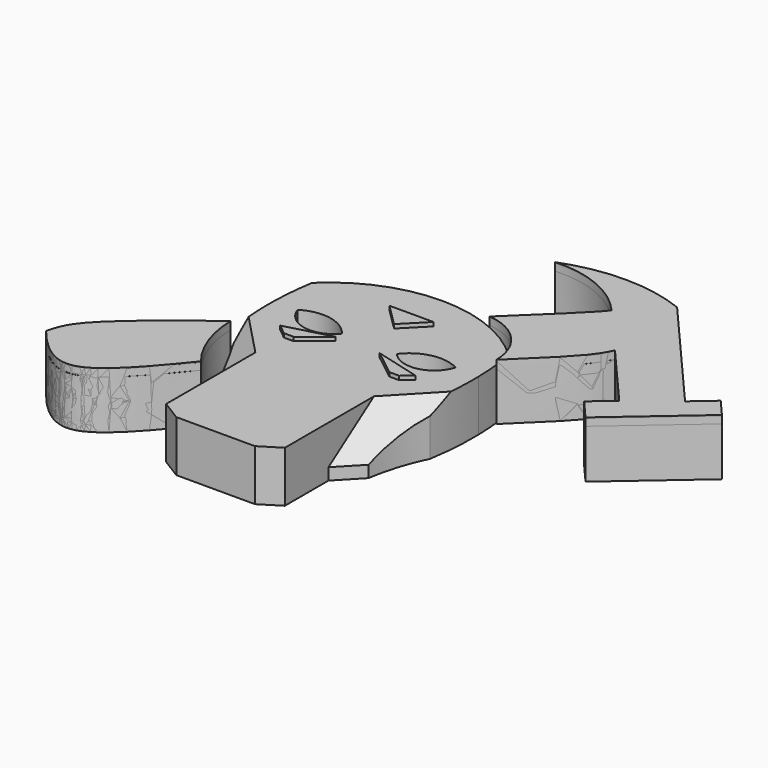
from build123d import *

# Parameters (mm, degrees)
F1_DEPTH = 6.5
F3_SIZE  = 5
F4_DEPTH = 7
F6_DEPTH = 7.2
F7_DEPTH = 7.1
F8_DEPTH = 6.2


with BuildPart() as f1:
    # F0 (on Top) → F1 (new body)
    with BuildSketch(Plane.XY):
        with BuildLine():
            Line((-5, -18.4848460191), (0, -18.4848460191))
            Line((0, -18.4848460191), (5, -18.4848460191))
            Line((5, -18.4848460191), (7.546688482, -16.8991670555))
            Line((7.546688482, -16.8991670555), (7.546688482, -9.9648127406))
            Line((7.546688482, -9.9648127406), (10.307957616, -7.0707856555))
            ThreePointArc((10.307957616, -7.0707856555), (11.1408114989, -3.4538072836), (12.5, 0))
            ThreePointArc((12.5, 0), (12.9195363206, 3.5231057176), (13.0086560419, 7.0699835415))
            Line((13.0086560419, 7.0699835415), (10.0107151117, 7.1811149009))
            ThreePointArc((10.0107151117, 7.1811149009), (7.2198051274, 4.6037186851), (3.6151232198, 5.803059395))
            Line((3.6151232198, 5.803059395), (-3.3572988263, 5.803059395))
            ThreePointArc((-3.3572988263, 5.803059395), (-7.0569417695, 4.4732070993), (-10.0086560419, 7.0699835415))
            Line((-10.0086560419, 7.0699835415), (-13.0086560419, 7.0699835415))
            ThreePointArc((-13.0086560419, 7.0699835415), (-12.9195363206, 3.5231057176), (-12.5, 0))
            ThreePointArc((-12.5, 0), (-11.1408114989, -3.4538072836), (-10.307957616, -7.0707856555))
            Line((-10.307957616, -7.0707856555), (-7.546688482, -9.9648127406))
            Line((-7.546688482, -9.9648127406), (-7.546688482, -16.8991670555))
            Line((-7.546688482, -16.8991670555), (-5, -18.4848460191))
        make_face()
        with BuildLine():
            ThreePointArc((-12.5, 12.5), (-12.8518687613, 9.7941288861), (-13.0086560419, 7.0699835415))
            Line((-13.0086560419, 7.0699835415), (-10.0086560419, 7.0699835415))
            ThreePointArc((-10.0086560419, 7.0699835415), (-6.435892718, 7.7337172897), (-3.3572988263, 5.803059395))
            Line((-3.3572988263, 5.803059395), (3.6151232198, 5.803059395))
            ThreePointArc((3.6151232198, 5.803059395), (6.5562487153, 7.6833014675), (10.0107151117, 7.1811149009))
            Line((10.0107151117, 7.1811149009), (13.0086560419, 7.0699835415))
            ThreePointArc((13.0086560419, 7.0699835415), (12.8518687613, 9.7941288861), (12.5, 12.5))
            ThreePointArc((12.5, 12.5), (0, 17.5620218672), (-12.5, 12.5))
        make_face()
    extrude(amount=F1_DEPTH)

    # F3
    f3_edges = [f1.edges().sort_by_distance(p)[0] for p in [
        (-8.927323, -8.517799, 6.5),
        (8.927323, -8.517799, 6.5),
    ]]
    chamfer(f3_edges, length=F3_SIZE)

    # F2 (on Top) → F4 (join)
    with BuildSketch(Plane.XY):
        Polygon((2.7648685425, 12.7032707048), (0, 12.7032707048), (-2.8330716532, 12.7032707048), (0, 9.9045083547), align=None)
        Polygon((-7.3284250684, 1.5438316623), (-2.8330716532, 4.1420751754), (-8.6280779543, 2.5871147354), align=None)
        Polygon((-6.0784250684, 1.5438316623), (-2.8330716532, 4.1420751754), (-7.3284250684, 1.5438316623), align=None)
        Polygon((8.5598748436, 2.5871147354), (2.7648685425, 4.1420751754), (7.3452845961, 1.5438316623), align=None)
        Polygon((7.3452845961, 1.5438316623), (2.7648685425, 4.1420751754), (6.0952845961, 1.5438316623), align=None)
    extrude(amount=F4_DEPTH)


with BuildPart() as f6:
    # F5 (on Top) → F6 (new body)
    with BuildSketch(Plane.XY):
        with BuildLine():
            add(Edge.make_bspline(
                [(-25.8379075676, -13.1371738389), (-25.5945488681, -12.1848880245), (-24.8351838835, -9.213420376), (-17.7041135385, -3.727685368), (-12.8583842888, 0)],
                knots=[0, 0, 0, 0, 0.3204765883, 1, 1, 1, 1], degree=3))
            add(Edge.make_bspline(
                [(-25.8379075676, -13.1371738389), (-25.1821435427, -13.9341154603), (-23.7478790856, -15.6771586869), (-18.4500778378, -19.2834477125), (-13.0896551761, -12.7292205484), (-9.7432984039, -8.6376061663)],
                knots=[0, 0, 0, 0, 0.2404058287, 0.5258073365, 1, 1, 1, 1], degree=3))
            ThreePointArc((-9.7432984039, -8.6376061663), (-12.0142304981, -4.5760813654), (-12.8583842888, 0))
        make_face()
    extrude(amount=F6_DEPTH)


with BuildPart() as f6b:
    # F5 (on Top) → F6, piece 2 (new body)
    with BuildSketch(Plane.XY):
        with BuildLine():
            add(Edge.make_bspline(
                [(6.6346595995, 16.8111696839), (9.9933228586, 20.0193486711), (14.4232862269, 24.2508283688), (15.0893225263, 25.1978767297), (15.2503903955, 25.4269018769)],
                knots=[0, 0, 0, 0, 0.7581695332, 1, 1, 1, 1], degree=3))
            ThreePointArc((6.6346595995, 16.8111696839), (11.1249930464, 14.6058795236), (12.964585796, 9.9537512287))
            add(Edge.make_bspline(
                [(12.964585796, 9.9537512287), (15.655198787, 12.5387803888), (19.6988329208, 16.4237360414), (20.6024271345, 18.2812074964), (20.9025796213, 18.9013099688)],
                knots=[0, 0, 0, 0, 0.6639989533, 0.9979022778, 0.9979022778, 0.9979022778, 0.9979022778], degree=3))
            Line((20.9025796213, 18.9013099688), (15.2503903955, 25.4269018769))
        make_face()
        with BuildLine():
            Line((20.9082365036, 18.9129970968), (15.2503903955, 25.4269018769))
            Line((15.2503903955, 25.4269018769), (20.9025796213, 18.9013099688))
            add(Edge.make_bspline(
                [(20.9025796213, 18.9013099688), (20.9044653065, 18.9052057154), (20.9063509051, 18.9091014061), (20.9082365036, 18.9129970968)],
                knots=[0.9979022778, 0.9979022778, 0.9979022778, 0.9979022778, 1, 1, 1, 1], degree=3))
        make_face()
        with BuildLine():
            ThreePointArc((4.4197016396, 29.9974143004), (10.3673193121, 28.9734797637), (15.2503903955, 25.4269018769))
            Line((15.2503903955, 25.4269018769), (20.9082365036, 18.9129970968))
            add(Edge.make_bspline(
                [(20.9025796213, 18.9013099688), (20.9044653065, 18.9052057154), (20.9063509051, 18.9091014061), (20.9082365036, 18.9129970968)],
                knots=[0.9979022778, 0.9979022778, 0.9979022778, 0.9979022778, 1, 1, 1, 1], degree=3))
            Line((20.9025796213, 18.9013099688), (28.008563444, 10.6972763315))
            Line((28.008563444, 10.6972763315), (25.3717325873, 8.4133659723))
            Line((25.3717325873, 8.4133659723), (27.6311614719, 5.8047995819))
            Line((27.6311614719, 5.8047995819), (37.8823381157, 14.6839313133))
            Line((37.8823381157, 14.6839313133), (35.8720388572, 17.004871404))
            Line((35.8720388572, 17.004871404), (33.1924562619, 14.6839313133))
            Line((33.1924562619, 14.6839313133), (19.928570814, 29.9974143004))
            ThreePointArc((19.928570814, 29.9974143004), (12.1741362268, 31.4518374404), (4.4197016396, 29.9974143004))
        make_face()
    extrude(amount=F6_DEPTH)


with BuildPart() as f7:
    # F5 (on Top) → F7 (new body)
    with BuildSketch(Plane.XY):
        with BuildLine():
            add(Edge.make_bspline(
                [(-25.8379075676, -13.1371738389), (-25.5945488681, -12.1848880245), (-24.8351838835, -9.213420376), (-17.7041135385, -3.727685368), (-12.8583842888, 0)],
                knots=[0, 0, 0, 0, 0.3204765883, 1, 1, 1, 1], degree=3))
            add(Edge.make_bspline(
                [(-25.8379075676, -13.1371738389), (-25.1821435427, -13.9341154603), (-23.7478790856, -15.6771586869), (-18.4500778378, -19.2834477125), (-13.0896551761, -12.7292205484), (-9.7432984039, -8.6376061663)],
                knots=[0, 0, 0, 0, 0.2404058287, 0.5258073365, 1, 1, 1, 1], degree=3))
            ThreePointArc((-9.7432984039, -8.6376061663), (-12.0142304981, -4.5760813654), (-12.8583842888, 0))
        make_face()
    extrude(amount=F7_DEPTH)


with BuildPart() as f7b:
    # F5 (on Top) → F7, piece 2 (new body)
    with BuildSketch(Plane.XY):
        with BuildLine():
            add(Edge.make_bspline(
                [(6.6346595995, 16.8111696839), (9.9933228586, 20.0193486711), (14.4232862269, 24.2508283688), (15.0893225263, 25.1978767297), (15.2503903955, 25.4269018769)],
                knots=[0, 0, 0, 0, 0.7581695332, 1, 1, 1, 1], degree=3))
            ThreePointArc((6.6346595995, 16.8111696839), (11.1249930464, 14.6058795236), (12.964585796, 9.9537512287))
            add(Edge.make_bspline(
                [(12.964585796, 9.9537512287), (15.655198787, 12.5387803888), (19.6988329208, 16.4237360414), (20.6024271345, 18.2812074964), (20.9025796213, 18.9013099688)],
                knots=[0, 0, 0, 0, 0.6639989533, 0.9979022778, 0.9979022778, 0.9979022778, 0.9979022778], degree=3))
            Line((20.9025796213, 18.9013099688), (15.2503903955, 25.4269018769))
        make_face()
        with BuildLine():
            Line((20.9082365036, 18.9129970968), (15.2503903955, 25.4269018769))
            Line((15.2503903955, 25.4269018769), (20.9025796213, 18.9013099688))
            add(Edge.make_bspline(
                [(20.9025796213, 18.9013099688), (20.9044653065, 18.9052057154), (20.9063509051, 18.9091014061), (20.9082365036, 18.9129970968)],
                knots=[0.9979022778, 0.9979022778, 0.9979022778, 0.9979022778, 1, 1, 1, 1], degree=3))
        make_face()
        with BuildLine():
            ThreePointArc((4.4197016396, 29.9974143004), (10.3673193121, 28.9734797637), (15.2503903955, 25.4269018769))
            Line((15.2503903955, 25.4269018769), (20.9082365036, 18.9129970968))
            add(Edge.make_bspline(
                [(20.9025796213, 18.9013099688), (20.9044653065, 18.9052057154), (20.9063509051, 18.9091014061), (20.9082365036, 18.9129970968)],
                knots=[0.9979022778, 0.9979022778, 0.9979022778, 0.9979022778, 1, 1, 1, 1], degree=3))
            Line((20.9025796213, 18.9013099688), (28.008563444, 10.6972763315))
            Line((28.008563444, 10.6972763315), (25.3717325873, 8.4133659723))
            Line((25.3717325873, 8.4133659723), (27.6311614719, 5.8047995819))
            Line((27.6311614719, 5.8047995819), (37.8823381157, 14.6839313133))
            Line((37.8823381157, 14.6839313133), (35.8720388572, 17.004871404))
            Line((35.8720388572, 17.004871404), (33.1924562619, 14.6839313133))
            Line((33.1924562619, 14.6839313133), (19.928570814, 29.9974143004))
            ThreePointArc((19.928570814, 29.9974143004), (12.1741362268, 31.4518374404), (4.4197016396, 29.9974143004))
        make_face()
    extrude(amount=F7_DEPTH)


with BuildPart() as f8:
    # F5 (on Top) → F8 (new body)
    with BuildSketch(Plane.XY):
        with BuildLine():
            add(Edge.make_bspline(
                [(-25.8379075676, -13.1371738389), (-25.5945488681, -12.1848880245), (-24.8351838835, -9.213420376), (-17.7041135385, -3.727685368), (-12.8583842888, 0)],
                knots=[0, 0, 0, 0, 0.3204765883, 1, 1, 1, 1], degree=3))
            add(Edge.make_bspline(
                [(-25.8379075676, -13.1371738389), (-25.1821435427, -13.9341154603), (-23.7478790856, -15.6771586869), (-18.4500778378, -19.2834477125), (-13.0896551761, -12.7292205484), (-9.7432984039, -8.6376061663)],
                knots=[0, 0, 0, 0, 0.2404058287, 0.5258073365, 1, 1, 1, 1], degree=3))
            ThreePointArc((-9.7432984039, -8.6376061663), (-12.0142304981, -4.5760813654), (-12.8583842888, 0))
        make_face()
    extrude(amount=F8_DEPTH)


with BuildPart() as f8b:
    # F5 (on Top) → F8, piece 2 (new body)
    with BuildSketch(Plane.XY):
        with BuildLine():
            add(Edge.make_bspline(
                [(6.6346595995, 16.8111696839), (9.9933228586, 20.0193486711), (14.4232862269, 24.2508283688), (15.0893225263, 25.1978767297), (15.2503903955, 25.4269018769)],
                knots=[0, 0, 0, 0, 0.7581695332, 1, 1, 1, 1], degree=3))
            ThreePointArc((6.6346595995, 16.8111696839), (11.1249930464, 14.6058795236), (12.964585796, 9.9537512287))
            add(Edge.make_bspline(
                [(12.964585796, 9.9537512287), (15.655198787, 12.5387803888), (19.6988329208, 16.4237360414), (20.6024271345, 18.2812074964), (20.9025796213, 18.9013099688)],
                knots=[0, 0, 0, 0, 0.6639989533, 0.9979022778, 0.9979022778, 0.9979022778, 0.9979022778], degree=3))
            Line((20.9025796213, 18.9013099688), (15.2503903955, 25.4269018769))
        make_face()
        with BuildLine():
            Line((20.9082365036, 18.9129970968), (15.2503903955, 25.4269018769))
            Line((15.2503903955, 25.4269018769), (20.9025796213, 18.9013099688))
            add(Edge.make_bspline(
                [(20.9025796213, 18.9013099688), (20.9044653065, 18.9052057154), (20.9063509051, 18.9091014061), (20.9082365036, 18.9129970968)],
                knots=[0.9979022778, 0.9979022778, 0.9979022778, 0.9979022778, 1, 1, 1, 1], degree=3))
        make_face()
        with BuildLine():
            ThreePointArc((4.4197016396, 29.9974143004), (10.3673193121, 28.9734797637), (15.2503903955, 25.4269018769))
            Line((15.2503903955, 25.4269018769), (20.9082365036, 18.9129970968))
            add(Edge.make_bspline(
                [(20.9025796213, 18.9013099688), (20.9044653065, 18.9052057154), (20.9063509051, 18.9091014061), (20.9082365036, 18.9129970968)],
                knots=[0.9979022778, 0.9979022778, 0.9979022778, 0.9979022778, 1, 1, 1, 1], degree=3))
            Line((20.9025796213, 18.9013099688), (28.008563444, 10.6972763315))
            Line((28.008563444, 10.6972763315), (25.3717325873, 8.4133659723))
            Line((25.3717325873, 8.4133659723), (27.6311614719, 5.8047995819))
            Line((27.6311614719, 5.8047995819), (37.8823381157, 14.6839313133))
            Line((37.8823381157, 14.6839313133), (35.8720388572, 17.004871404))
            Line((35.8720388572, 17.004871404), (33.1924562619, 14.6839313133))
            Line((33.1924562619, 14.6839313133), (19.928570814, 29.9974143004))
            ThreePointArc((19.928570814, 29.9974143004), (12.1741362268, 31.4518374404), (4.4197016396, 29.9974143004))
        make_face()
    extrude(amount=F8_DEPTH)


solid = Compound([f1.part, f6.part, f6b.part, f7.part, f7b.part, f8.part, f8b.part])
